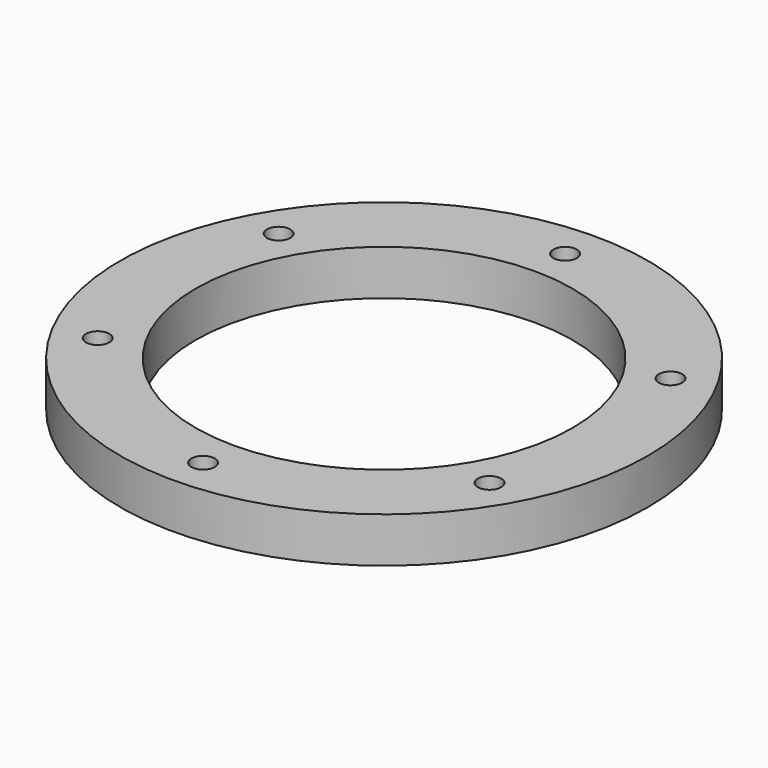
from build123d import *

# Parameters (mm, degrees)
F0_R     = 35
F1_DEPTH = 6
F2_R     = 1.55
F3_DEPTH = 6.001
F4_R     = 25
F5_DEPTH = 6.001


with BuildPart() as f1:
    # F0 (on Top) → F1 (new body)
    with BuildSketch(Plane.XY):
        Circle(F0_R)
    extrude(amount=F1_DEPTH)

    # F2 (on face) → F3 (cut, through all)
    with BuildSketch(Plane.XY.offset(6)):
        with Locations((0, 30)):
            Circle(F2_R)
        with Locations((-25.980762, 15)):
            Circle(F2_R)
        with Locations((-25.980762, -15)):
            Circle(F2_R)
        with Locations((25.980762, 15)):
            Circle(F2_R)
        with Locations((25.980762, -15)):
            Circle(F2_R)
        with Locations((0, -30)):
            Circle(F2_R)
    extrude(amount=-F3_DEPTH, mode=Mode.SUBTRACT)

    # F4 (on face) → F5 (cut, through all)
    with BuildSketch(Plane.XY.offset(6)):
        Circle(F4_R)
    extrude(amount=-F5_DEPTH, mode=Mode.SUBTRACT)


solid = f1.part
